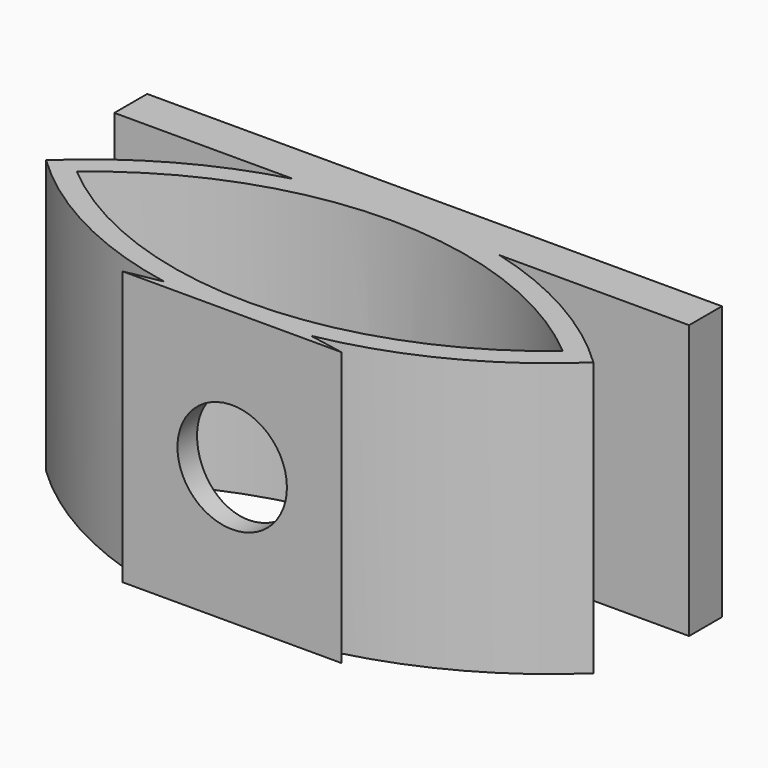
from build123d import *

# Parameters (mm, degrees)
F1_DEPTH = 20
F2_R     = 4
F2_R_2   = 1.5
F3_DEPTH = 4
F4_DEPTH = 25


with BuildPart() as f1:
    # F0 (on Top) → F1 (new body)
    with BuildSketch(Plane.XY):
        with BuildLine():
            ThreePointArc((4.9580672995, -35.5026810684), (12.8277785568, -32.8128229291), (19.6104349345, -28))
            ThreePointArc((19.6104349345, -28), (13.8230470925, -23.7215179323), (7.1602693698, -21))
            Line((7.1602693698, -21), (-7.9393995008, -21))
            ThreePointArc((-7.9393995008, -21), (-14.6021772235, -23.7215179323), (-20.3895650655, -28))
            ThreePointArc((-20.3895650655, -28), (-13.6069086879, -32.8128229291), (-5.7371974305, -35.5026810684))
            Line((-5.7371974305, -35.5026810684), (-0.3895650655, -34.5))
            Line((-0.3895650655, -34.5), (4.9580672995, -35.5026810684))
        make_face()
        with BuildLine():
            ThreePointArc((17.3657158391, -28), (9.0642701351, -32.8239230172), (-0.3895650655, -34.5))
            ThreePointArc((-0.3895650655, -34.5), (-9.8434002661, -32.8239230172), (-18.1448459701, -28))
            ThreePointArc((-18.1448459701, -28), (-0.3895650655, -21.5), (17.3657158391, -28))
        make_face(mode=Mode.SUBTRACT)
        with BuildLine():
            Line((7.6104349345, -36), (4.9580672995, -35.5026810684))
            ThreePointArc((4.9580672995, -35.5026810684), (2.295788637, -35.8754026031), (-0.3895650655, -36))
            Line((-0.3895650655, -36), (7.6104349345, -36))
        make_face()
        with BuildLine():
            Line((-8.3895650655, -36), (-0.3895650655, -36))
            ThreePointArc((-0.3895650655, -36), (-3.074918768, -35.8754026031), (-5.7371974305, -35.5026810684))
            Line((-5.7371974305, -35.5026810684), (-8.3895650655, -36))
        make_face()
        with BuildLine():
            ThreePointArc((-0.3895650655, -36), (2.295788637, -35.8754026031), (4.9580672995, -35.5026810684))
            Line((4.9580672995, -35.5026810684), (-0.3895650655, -34.5))
            Line((-0.3895650655, -34.5), (-5.7371974305, -35.5026810684))
            ThreePointArc((-5.7371974305, -35.5026810684), (-3.074918768, -35.8754026031), (-0.3895650655, -36))
        make_face()
        with BuildLine():
            Line((-7.9393995008, -21), (7.1602693698, -21))
            ThreePointArc((7.1602693698, -21), (-0.3895650655, -20), (-7.9393995008, -21))
        make_face()
        with BuildLine():
            ThreePointArc((-7.9393995008, -21), (-0.3895650655, -20), (7.1602693698, -21))
            Line((7.1602693698, -21), (21, -21))
            Line((21, -21), (21, -18))
            Line((21, -18), (0, -18))
            Line((0, -18), (-21, -18))
            Line((-21, -18), (-21, -21))
            Line((-21, -21), (-7.9393995008, -21))
        make_face()
    extrude(amount=F1_DEPTH)

    # F2 (on face) → F3 (cut)
    with BuildSketch(Plane.XZ.offset(36)):
        with Locations((-0.3895650655, 10)):
            Circle(F2_R)
        with Locations((-0.3895650655, 10)):
            Circle(F2_R_2, mode=Mode.SUBTRACT)
    extrude(amount=-F3_DEPTH, mode=Mode.SUBTRACT)

    # F4 (cut): a face of the model
    f4_faces = [f1.faces().sort_by_distance(p)[0] for p in [
        (-0.3895650655, -36, 10),
    ]]
    extrude(f4_faces, amount=-F4_DEPTH, mode=Mode.SUBTRACT)


solid = f1.part
